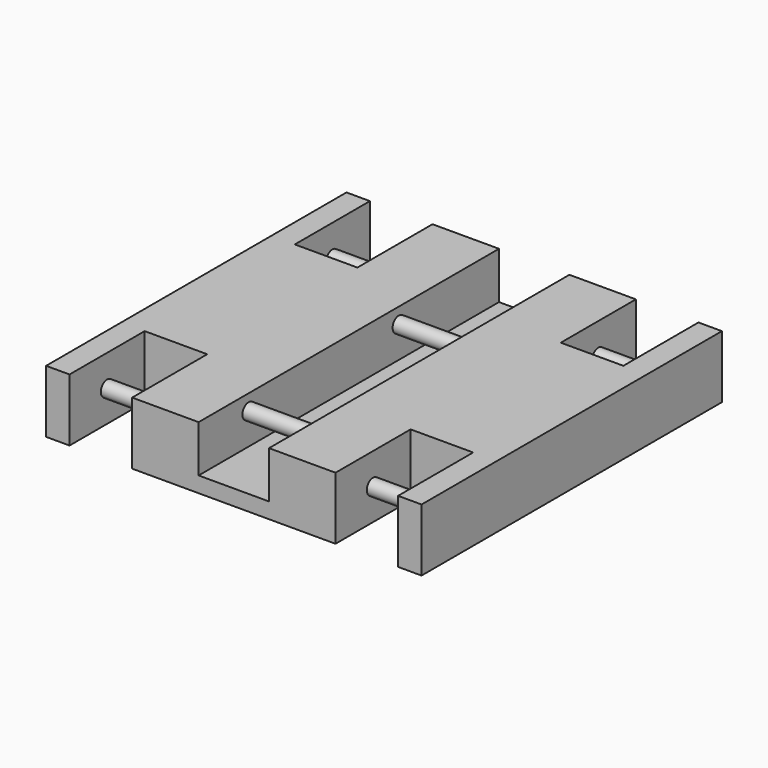
from build123d import *

# Parameters (mm, degrees)
F0_W     = 609.6
F0_H     = 609.6
F1_DEPTH = 101.6
F2_W     = 101.6
F2_H     = 152.4
F3_DEPTH = 101.6
F4_R     = 12.7
F5_DEPTH = 609.6
F6_W     = 114.3
F6_H     = 609.6
F7_DEPTH = 76.2
F8_R     = 12.7
F9_DEPTH = 114.3


with BuildPart() as f1:
    # F0 (on Top) → F1 (new body)
    with BuildSketch(Plane.XY):
        with Locations((178.062361, 224.069413)):
            Rectangle(F0_W, F0_H)
    extrude(amount=F1_DEPTH)

    # F2 (on Top) → F3 (cut)
    with BuildSketch(Plane.XY):
        with Locations((393.962361, -4.530587)):
            Rectangle(F2_W, F2_H)
        with Locations((-37.837639, -4.530587)):
            Rectangle(F2_W, F2_H)
        with Locations((-37.837639, 452.669413)):
            Rectangle(F2_W, F2_H)
        with Locations((393.962361, 452.669413)):
            Rectangle(F2_W, F2_H)
    extrude(amount=F3_DEPTH, mode=Mode.SUBTRACT)

    # F4 (on face) → F5 (join)
    with BuildSketch(Plane(origin=(-126.737639, 0, 0), x_dir=(0, -1, 0), z_dir=(-1, 0, 0))):
        with Locations((-452.669413, 50.8)):
            Circle(F4_R)
        with Locations((4.530587, 50.8)):
            Circle(F4_R)
    extrude(amount=-F5_DEPTH)

    # F6 (on face) → F7 (cut)
    with BuildSketch(Plane.XY.offset(101.6)):
        with Locations((178.062361, 224.069413)):
            Rectangle(F6_W, F6_H)
    extrude(amount=-F7_DEPTH, mode=Mode.SUBTRACT)

    # F8 (on face) → F9 (join, through all)
    with BuildSketch(Plane.YZ.offset(120.912361)):
        with Locations((20.869413, 76.2)):
            Circle(F8_R)
        with Locations((325.669413, 76.2)):
            Circle(F8_R)
    extrude(amount=F9_DEPTH)


solid = f1.part
